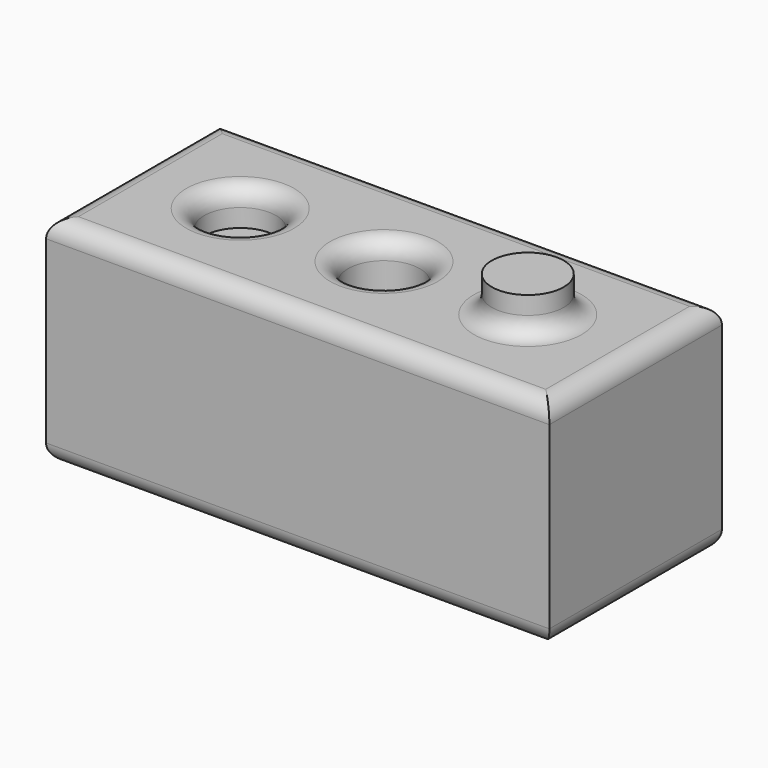
from build123d import *

# Parameters (mm, degrees)
F0_W     = 140
F0_H     = 60
F1_DEPTH = 60
F3_R     = 10
F5_DEPTH = 10
F4_R     = 10
F6_DEPTH = 96.3
F7_R     = 5
F2_R     = 10
F8_DEPTH = 10
F9_R     = 5


with BuildPart() as f1:
    # F0 (on Top) → F1 (new body)
    with BuildSketch(Plane.XY):
        Rectangle(F0_W, F0_H)
    extrude(amount=F1_DEPTH)

    # F3 (on face) → F5 (join)
    with BuildSketch(Plane.XY.offset(60)):
        with Locations((40, 0)):
            Circle(F3_R)
    extrude(amount=F5_DEPTH)

    # F4 (on face) → F6 (cut)
    with BuildSketch(Plane.XY.offset(60)):
        Circle(F4_R)
    extrude(amount=-F6_DEPTH, mode=Mode.SUBTRACT)

    # F7
    f7_edges = [f1.edges().sort_by_distance(p)[0] for p in [
        (0, -30, 0),
        (-70, 0, 0),
        (70, 0, 0),
        (0, 30, 0),
        (-10, 0, 0),
    ]]
    fillet(f7_edges, radius=F7_R)

    # F2 (on face) → F8 (cut)
    with BuildSketch(Plane.XY.offset(60)):
        with Locations((-40, 0)):
            Circle(F2_R)
    extrude(amount=-F8_DEPTH, mode=Mode.SUBTRACT)

    # F9
    f9_edges = [f1.edges().sort_by_distance(p)[0] for p in [
        (0, -30, 60),
        (-70, 0, 60),
        (70, 0, 60),
        (0, 30, 60),
        (-50, 0, 60),
        (-10, 0, 60),
        (30, 0, 60),
    ]]
    fillet(f9_edges, radius=F9_R)


solid = f1.part
